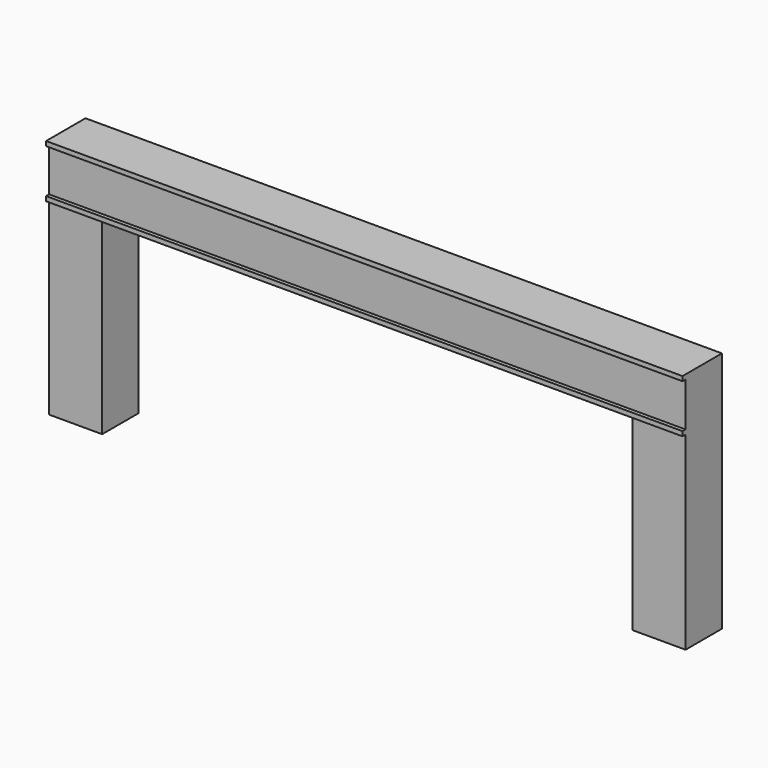
from build123d import *

# Parameters (mm, degrees)
F1_DEPTH = 600
F2_W     = 8400
F2_H     = 60
F3_DEPTH = 50


with BuildPart() as f1:
    # F0 (on Front) → F1 (new body)
    with BuildSketch(Plane.XZ):
        Polygon((4200, -1600), (4200, 1600), (-4200, 1600), (-4200, -1600), (-3500, -1600), (-3500, 900), (3500, 900), (3500, -1600), align=None)
    extrude(amount=F1_DEPTH)

    # F2 (on face) → F3 (join)
    with BuildSketch(Plane.XZ.offset(600)):
        with Locations((0, 1570)):
            Rectangle(F2_W, F2_H)
        Polygon((4200, 960), (-4200, 960), (-4200, 900), (-3500, 900), (3500, 900), (4200, 900), align=None)
    extrude(amount=F3_DEPTH)


solid = f1.part
